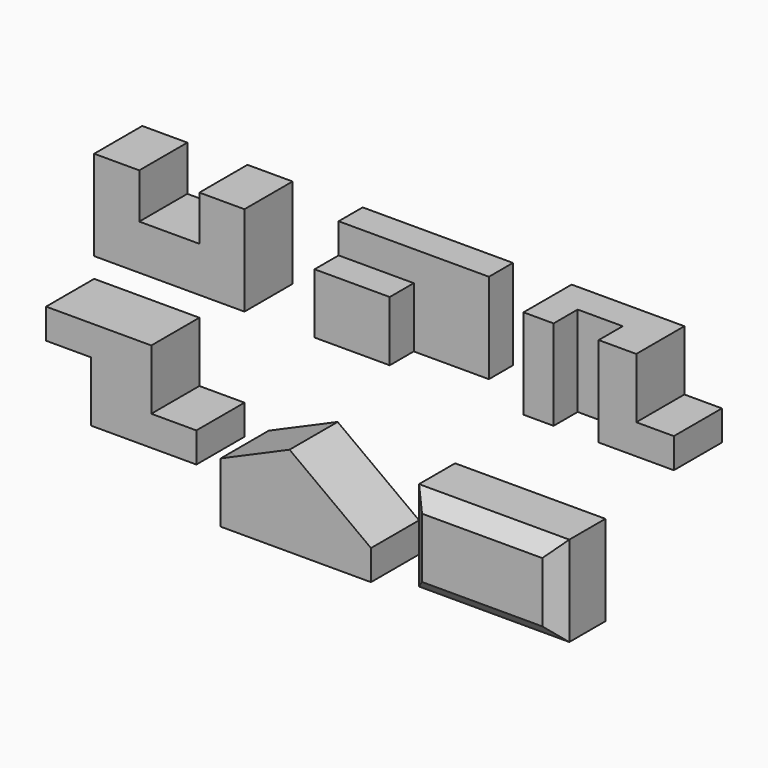
from build123d import *

# Parameters (mm, degrees)
F1_DEPTH  = 101.6
F3_DEPTH  = 152.4
F4_W      = 127
F4_H      = 50.8
F5_DEPTH  = 50.8
F7_DEPTH  = 152.4
F8_W      = 63.5
F8_H      = 101.6
F9_DEPTH  = 101.6
F12_DEPTH = 101.6
F13_DEPTH = 101.6
F14_W     = 254
F14_H     = 152.4
F15_DEPTH = 101.6
F16_SIZE  = 25.4


with BuildPart() as f1:
    # F0 (on Front) → F1 (new body)
    with BuildSketch(Plane.XZ):
        Polygon((0, 152.4), (0, 0), (254, 0), (254, 152.4), (177.8, 152.4), (177.8, 76.2), (76.2, 76.2), (76.2, 152.4), align=None)
    extrude(amount=-F1_DEPTH)


with BuildPart() as f3:
    # F2 (on Top) → F3 (new body)
    with BuildSketch(Plane.XY):
        Polygon((372.488037, 101.6), (372.488037, 0), (499.488037, 0), (499.488037, 50.8), (626.488037, 50.8), (626.488037, 101.6), align=None)
    extrude(amount=F3_DEPTH)

    # F4 (on face) → F5 (cut)
    with BuildSketch(Plane.XZ):
        with Locations((435.988037, 127)):
            Rectangle(F4_W, F4_H)
    extrude(amount=-F5_DEPTH, mode=Mode.SUBTRACT)


with BuildPart() as f7:
    # F6 (on Top) → F7 (new body)
    with BuildSketch(Plane.XY):
        Polygon((979.655309, 101.6), (725.655309, 101.6), (725.655309, 0), (776.455309, 0), (776.455309, 50.8), (852.655309, 50.8), (852.655309, 0), (979.655309, 0), align=None)
    extrude(amount=F7_DEPTH)

    # F8 (on face) → F9 (cut)
    with BuildSketch(Plane.XZ):
        with Locations((947.905309, 101.6)):
            Rectangle(F8_W, F8_H)
    extrude(amount=-F9_DEPTH, mode=Mode.SUBTRACT)


with BuildPart() as f12:
    # F10 (on Front) → F12 (new body)
    with BuildSketch(Plane.XZ):
        Polygon((177.8, -33.786778), (0, -33.786778), (0, -84.586778), (76.2, -84.586778), (76.2, -186.186778), (254, -186.186778), (254, -135.386778), (177.8, -135.386778), align=None)
    extrude(amount=F12_DEPTH)


with BuildPart() as f13:
    # F11 (on Front) → F13 (new body)
    with BuildSketch(Plane.XZ):
        Polygon((411.488872, -112.860752), (295.091449, -163.660752), (295.091449, -265.260752), (549.091449, -265.260752), (549.091449, -214.460752), align=None)
    extrude(amount=F13_DEPTH)


with BuildPart() as f15:
    # F14 (on Front) → F15 (new body)
    with BuildSketch(Plane.XZ):
        with Locations((736.99488, -186.036799)):
            Rectangle(F14_W, F14_H)
    extrude(amount=F15_DEPTH)

    # F16
    f16_edges = [f15.edges().sort_by_distance(p)[0] for p in [
        (736.99488, -101.6, -109.836799),
        (609.99488, -101.6, -186.036799),
        (736.99488, -101.6, -262.236799),
        (863.99488, -101.6, -186.036799),
    ]]
    chamfer(f16_edges, length=F16_SIZE)


solid = Compound([f1.part, f3.part, f7.part, f12.part, f13.part, f15.part])
